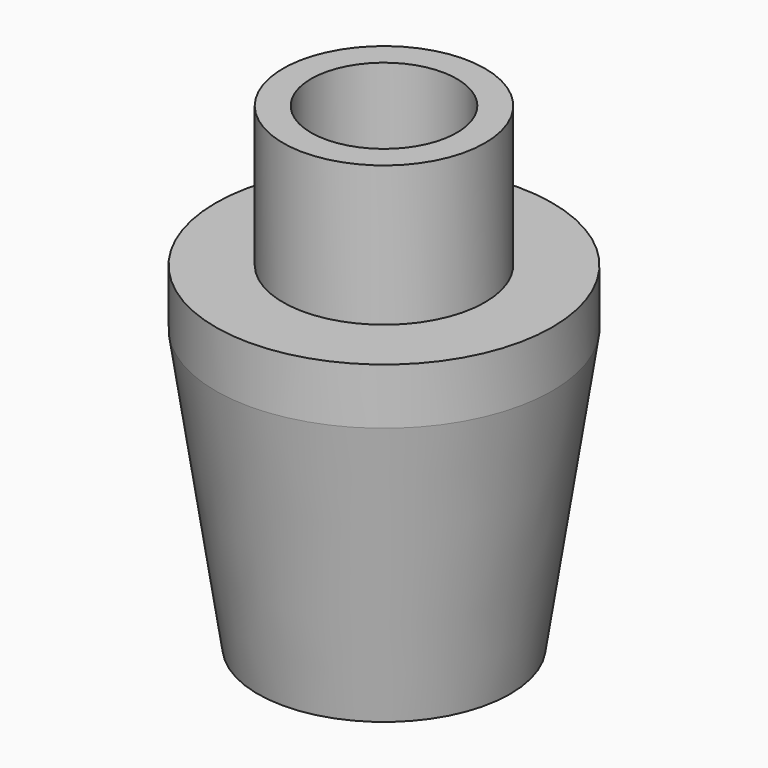
from build123d import *

# Parameters (mm, degrees)
F0_R     = 4.5
F2_R     = 6
F4_DEPTH = 2
F5_R     = 3.6
F6_DEPTH = 5
F7_D     = 5.2


with BuildPart() as f3:
    # F0 (on Top) → F3 section 0
    with BuildSketch(Plane.XY):
        Circle(F0_R)
    # F2 (on offset) → F3 section 1
    with BuildSketch(Plane.XY.offset(10)):
        Circle(F2_R)
    loft()

    # F4 (add): a face of the model
    f4_faces = [f3.faces().sort_by_distance(p)[0] for p in [
        (0, 0, 10),
    ]]
    extrude(f4_faces, amount=F4_DEPTH)

    # F5 (on face) → F6 (join)
    with BuildSketch(Plane.XY.offset(12)):
        Circle(F5_R)
    extrude(amount=F6_DEPTH)

    # F7 (through all)
    with Locations(Plane(origin=(0, 0, 0), x_dir=(1, 0, 0), z_dir=(0, 0, -1))):
        with Locations((0, 0)):
            Hole(F7_D / 2)


solid = f3.part
